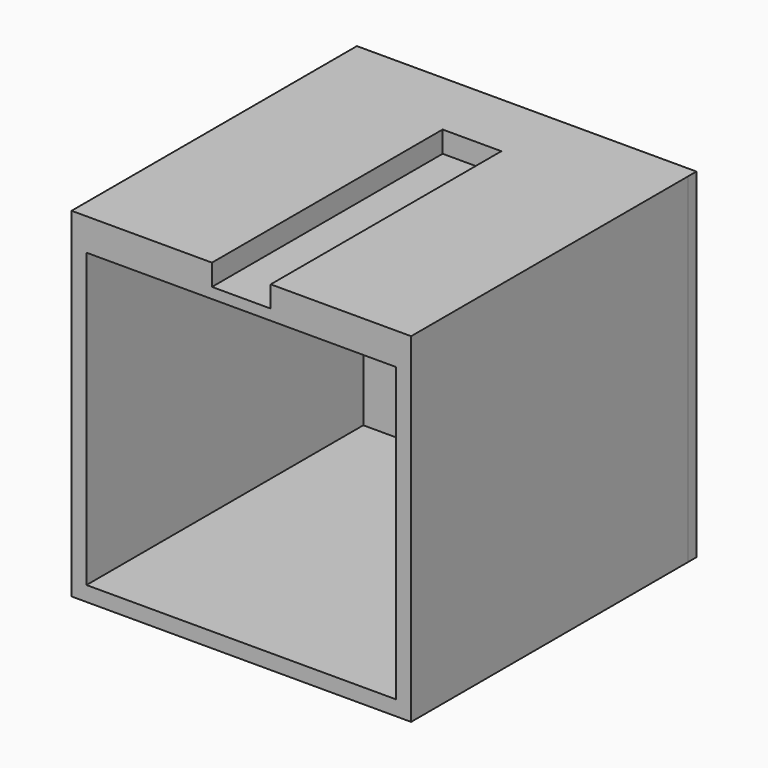
from build123d import *

# Parameters (mm, degrees)
SKETCH013_W     = 31.8
SKETCH013_H     = 31.8
SKETCH013_R     = 1.75
SKETCH013_W_2   = 29.000001
SKETCH013_H_2   = 2
PAD005_DEPTH    = 1
SKETCH014_W     = 31.8
SKETCH014_H     = 31.8
SKETCH014_W_2   = 29
SKETCH014_H_2   = 27.4
PAD006_DEPTH    = 32.4
SKETCH024_W     = 5.5
SKETCH024_H     = 27
POCKET010_DEPTH = 2


with BuildPart() as part:
    # Sketch013 (on Face2 of Binder003) → Pad005 (new body)
    with BuildSketch(Plane.XZ.offset(-33.95)):
        with Locations((13.749781, 0.8)):
            Rectangle(SKETCH013_W, SKETCH013_H)
        with Locations((5.24978, 9.3)):
            Circle(SKETCH013_R, mode=Mode.SUBTRACT)
        with Locations((22.24978, 9.3)):
            Circle(SKETCH013_R, mode=Mode.SUBTRACT)
        with Locations((22.24978, -7.7)):
            Circle(SKETCH013_R, mode=Mode.SUBTRACT)
        with Locations((5.24978, -7.7)):
            Circle(SKETCH013_R, mode=Mode.SUBTRACT)
        with Locations((13.74978, 0.8)):
            Rectangle(SKETCH013_W_2, SKETCH013_H_2, mode=Mode.SUBTRACT)
    extrude(amount=PAD005_DEPTH)

    # Sketch014 (on Face14 of Pad005) → Pad006 (join)
    with BuildSketch(Plane.XZ.offset(-32.95)):
        with Locations((13.74978, 0.8)):
            Rectangle(SKETCH014_W, SKETCH014_H)
        with Locations((13.74978, 0)):
            Rectangle(SKETCH014_W_2, SKETCH014_H_2, mode=Mode.SUBTRACT)
    extrude(amount=PAD006_DEPTH)

    # Sketch024 (on Face14 of Pad006) → Pocket010 (cut)
    with BuildSketch(Plane.XY.offset(16.7)):
        with Locations((13.74978, 14.05)):
            Rectangle(SKETCH024_W, SKETCH024_H)
    extrude(amount=-POCKET010_DEPTH, mode=Mode.SUBTRACT)


solid = part.part
